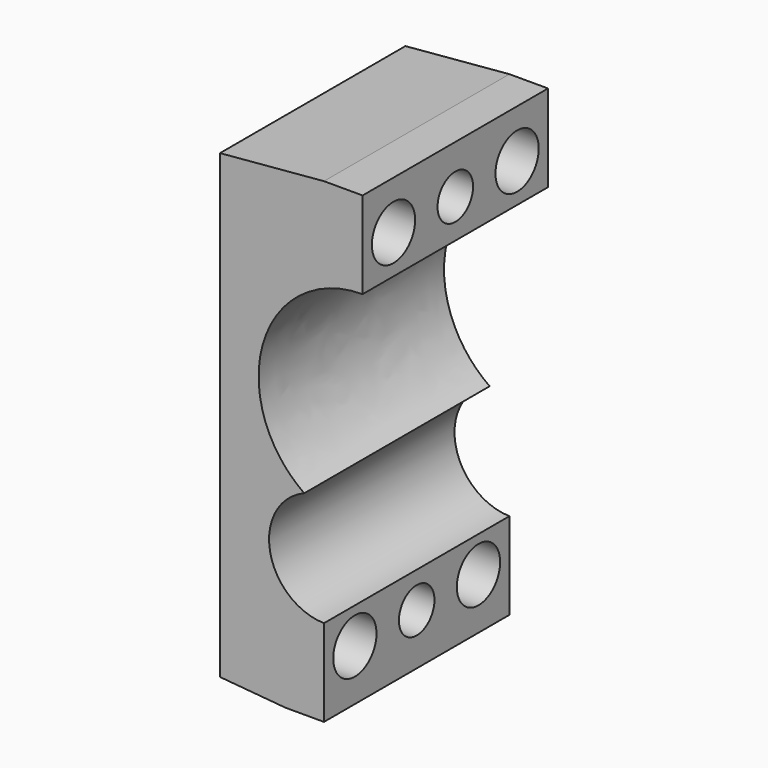
from build123d import *

# Parameters (mm, degrees)
CYLINDER011_R     = 2.3
CYLINDER011_DEPTH = 39
CYLINDER010_R     = 2.3
CYLINDER010_DEPTH = 35
CYLINDER001_R     = 2.8
CYLINDER001_DEPTH = 60
CYLINDER003_R     = 2.8
CYLINDER003_DEPTH = 60
CYLINDER002_R     = 2.8
CYLINDER002_DEPTH = 60
CYLINDER_R        = 2.8
CYLINDER_DEPTH    = 60
PAD002_DEPTH      = 24


with BuildPart() as obj1:
    # Cylinder011 → Cylinder011 (new body)
    with BuildSketch(Plane(origin=(41, -12, -3), x_dir=(0, 0, 1), z_dir=(-1, 0, 0))):
        Circle(CYLINDER011_R)
    extrude(amount=CYLINDER011_DEPTH)


with BuildPart() as obj2:
    # Cylinder010 → Cylinder010 (new body)
    with BuildSketch(Plane(origin=(41, -12, 36), x_dir=(0, 0, 1), z_dir=(-1, 0, 0))):
        Circle(CYLINDER010_R)
    extrude(amount=CYLINDER010_DEPTH)


with BuildPart() as o2:
    # Cylinder001 → Cylinder001 (new body)
    with BuildSketch(Plane(origin=(41, -4, 36), x_dir=(0, 0, 1), z_dir=(-1, 0, 0))):
        Circle(CYLINDER001_R)
    extrude(amount=CYLINDER001_DEPTH)


with BuildPart() as u002:
    # Cylinder003 → Cylinder003 (new body)
    with BuildSketch(Plane(origin=(41, -20, -3), x_dir=(0, 0, 1), z_dir=(-1, 0, 0))):
        Circle(CYLINDER003_R)
    extrude(amount=CYLINDER003_DEPTH)


with BuildPart() as u001:
    # Cylinder002 → Cylinder002 (new body)
    with BuildSketch(Plane(origin=(41, -4, -3), x_dir=(0, 0, 1), z_dir=(-1, 0, 0))):
        Circle(CYLINDER002_R)
    extrude(amount=CYLINDER002_DEPTH)


with BuildPart() as o1:
    # Cylinder → Cylinder (new body)
    with BuildSketch(Plane(origin=(41, -20, 36), x_dir=(0, 0, 1), z_dir=(-1, 0, 0))):
        Circle(CYLINDER_R)
    extrude(amount=CYLINDER_DEPTH)


with BuildPart() as cut014:
    # Sketch → Pad002 (new body)
    with BuildSketch(Plane.XZ):
        with BuildLine():
            ThreePointArc((3.856276, 11.885302), (0.303894, 5.460599), (5.893532, 0.701169))
            Line((5.893532, 0.701169), (5.893532, -8.298831))
            Line((5.893532, -8.298831), (1.893532, -8.298831))
            Line((1.893532, -8.298831), (-4.873896, -7.706757))
            Line((-4.873896, -7.706757), (-4.873896, 40.051511))
            Line((-4.873896, 40.051511), (5.893532, 40.993539))
            Line((5.893532, 40.993539), (9.893532, 40.993539))
            Line((9.893532, 40.993539), (9.893532, 31.993539))
            add(Edge.make_bspline(
                [(9.893532, 31.993539), (-25.2112, 31.993539), (3.856276, 11.885302)],
                knots=[0, 0, 0, 2.546366, 2.546366, 2.546366], degree=2, weights=[1, 0.293239, 1]))
        make_face()
    extrude(amount=PAD002_DEPTH)

    # Cut: cut O1
    add(o1.part, mode=Mode.SUBTRACT)

    # Cut010: cut U001
    add(u001.part, mode=Mode.SUBTRACT)

    # Cut011: cut U002
    add(u002.part, mode=Mode.SUBTRACT)

    # Cut012: cut O2
    add(o2.part, mode=Mode.SUBTRACT)

    # Cut013: cut obj2
    add(obj2.part, mode=Mode.SUBTRACT)

    # Cut014: cut obj1
    add(obj1.part, mode=Mode.SUBTRACT)


solid = cut014.part
